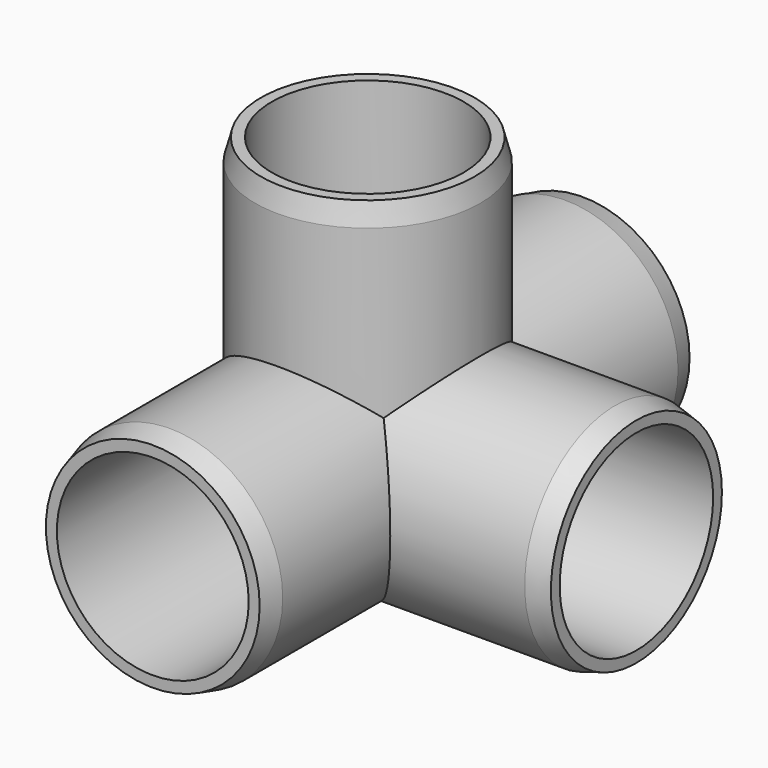
from build123d import *

# Parameters (mm, degrees)
F0_R          = 24.765
F0_R_2        = 21.082
F1_DEPTH      = 59.055
F2_R          = 24.765
F2_R_2        = 21.082
F3_DEPTH      = 59.055
F4_R          = 24.765
F4_R_2        = 21.082
F5_DEPTH      = 59.055
F6_DEPTH      = 59.0560001
F7_DEPTH      = 59.0560001
F8_DEPTH      = 59.0560001
F8_DEPTH_BACK = 59.0560001
F9_SIZE2      = 4.7397045256
F9_SIZE       = 1.27
F9_2_SIZE2    = 4.7397045256
F9_2_SIZE     = 1.27
F9_3_SIZE2    = 4.7397045256
F9_3_SIZE     = 1.27
F10_SIZE2     = 4.7397045256
F10_SIZE      = 1.27


with BuildPart() as f1:
    # F0 (on Front) → F1 (new body, symmetric)
    with BuildSketch(Plane.XZ):
        Circle(F0_R)
        Circle(F0_R_2, mode=Mode.SUBTRACT)
    extrude(amount=F1_DEPTH, both=True)

    # F2 (on Top) → F3 (join)
    with BuildSketch(Plane.XY):
        Circle(F2_R)
        Circle(F2_R_2, mode=Mode.SUBTRACT)
    extrude(amount=F3_DEPTH)

    # F4 (on Right) → F5 (join)
    with BuildSketch(Plane.YZ):
        Circle(F4_R)
        Circle(F4_R_2, mode=Mode.SUBTRACT)
    extrude(amount=F5_DEPTH)

    # F4 (on Right) → F6 (cut, through all)
    with BuildSketch(Plane.YZ):
        Circle(F4_R_2)
    extrude(amount=F6_DEPTH, mode=Mode.SUBTRACT)

    # F2 (on Top) → F7 (cut, through all)
    with BuildSketch(Plane.XY):
        Circle(F2_R_2)
    extrude(amount=F7_DEPTH, mode=Mode.SUBTRACT)

    # F0 (on Front) → F8 (cut, two sides)
    with BuildSketch(Plane.XZ) as f8_sk:
        Circle(F0_R_2)
    extrude(amount=F8_DEPTH, mode=Mode.SUBTRACT)
    extrude(f8_sk.sketch, amount=-F8_DEPTH_BACK, mode=Mode.SUBTRACT)

    # F9
    f9_edges = [f1.edges().sort_by_distance(p)[0] for p in [
        (-24.765, 0, 59.055),
    ]]
    f9_side = f1.faces().sort_by_distance((-24.06454, 0, 59.055))[0]
    chamfer(f9_edges, length=F9_SIZE, length2=F9_SIZE2, reference=f9_side)

    # F9#2
    f9_2_edges = [f1.edges().sort_by_distance(p)[0] for p in [
        (-24.765, -59.055, 0),
    ]]
    f9_2_side = f1.faces().sort_by_distance((-24.06454, -59.055, 0))[0]
    chamfer(f9_2_edges, length=F9_2_SIZE, length2=F9_2_SIZE2, reference=f9_2_side)

    # F9#3
    f9_3_edges = [f1.edges().sort_by_distance(p)[0] for p in [
        (59.055, -24.765, 0),
    ]]
    f9_3_side = f1.faces().sort_by_distance((59.055, -24.06454, 0))[0]
    chamfer(f9_3_edges, length=F9_3_SIZE, length2=F9_3_SIZE2, reference=f9_3_side)

    # F10
    f10_edges = [f1.edges().sort_by_distance(p)[0] for p in [
        (-24.765, 59.055, 0),
    ]]
    f10_side = f1.faces().sort_by_distance((-24.06454, 59.055, 0))[0]
    chamfer(f10_edges, length=F10_SIZE, length2=F10_SIZE2, reference=f10_side)


solid = f1.part
